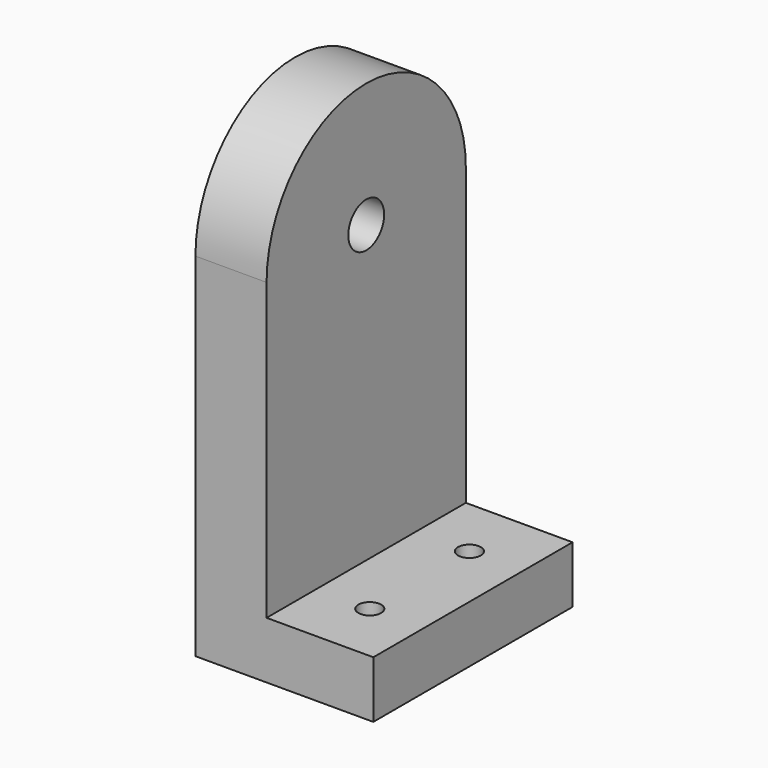
from build123d import *

# Parameters (mm, degrees)
PAD_DEPTH        = 35
SKETCH001_R      = 3.15
POCKET_DEPTH     = 10
HOLE_D           = 3.2
HOLE_CSINK_D     = 6.1
HOLE_CSINK_ANGLE = 90


with BuildPart() as part:
    # Sketch → Pad (new body)
    with BuildSketch(Plane.XZ):
        Polygon((0, 0), (0, 67), (10, 67), (10, 8), (25, 8), (25, 0), align=None)
    extrude(amount=PAD_DEPTH)

    # Sketch001 → Pocket (cut)
    with BuildSketch(Plane.YZ):
        with Locations((-17.5, 49.5)):
            Circle(SKETCH001_R)
        with BuildLine():
            ThreePointArc((0, 49.5), (-17.5, 67), (-35, 49.5))
            Line((-35, 49.5), (-45, 49.5))
            Line((-45, 49.5), (-45, 74.5))
            Line((-45, 74.5), (10, 74.5))
            Line((10, 74.5), (10, 49.5))
            Line((10, 49.5), (0, 49.5))
        make_face()
    extrude(amount=POCKET_DEPTH, mode=Mode.SUBTRACT)

    # Hole (through all)
    with Locations(Plane(origin=(0, 0, 0), x_dir=(1, 0, 0), z_dir=(0, 0, -1))):
        with Locations((17.5, 8.75), (17.5, 26.25)):
            CounterSinkHole(HOLE_D / 2, HOLE_CSINK_D / 2, counter_sink_angle=HOLE_CSINK_ANGLE)


solid = part.part
